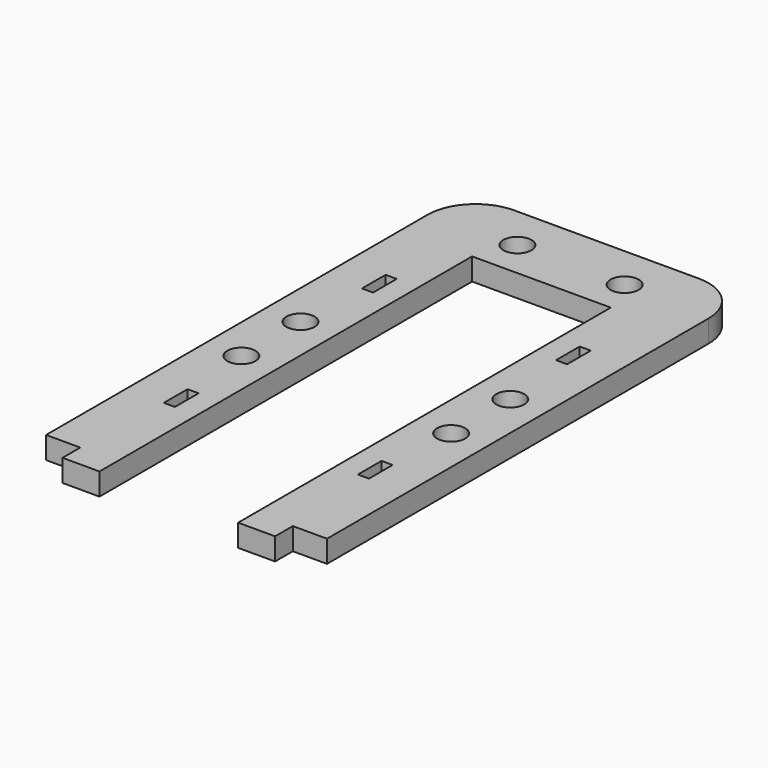
from build123d import *

# Parameters (mm, degrees)
PAD001_DEPTH                  = 3
SKETCH002_W                   = 5
SKETCH002_H                   = 3
PAD002_DEPTH                  = 3
SKETCH006_W                   = 1.5
SKETCH006_H                   = 4
POCKET002_DEPTH               = 169.48223
SKETCH006_MIRRORED004_2_W     = 1.5
SKETCH006_MIRRORED004_2_H     = 4
POCKET002_MIRRORED004_2_DEPTH = 169.48223
SKETCH008_R                   = 1.9
POCKET003_DEPTH               = 3.001
SKETCH013_R                   = 1.9
POCKET007_DEPTH               = 169.48223
SKETCH038_R                   = 1.9
POCKET025_DEPTH               = 169.48223


with BuildPart() as part:
    # Sketch001 → Pad001 (new body)
    with BuildSketch(Plane.XY):
        with BuildLine():
            Line((-19, 32.25), (-19, -32.25))
            Line((-19, -32.25), (-9.375, -32.25))
            Line((-9.375, -32.25), (-9.375, 27.75))
            Line((-9.375, 27.75), (9.375, 27.75))
            Line((9.375, 27.75), (9.375, -32.25))
            Line((9.375, -32.25), (19, -32.25))
            Line((19, -32.25), (19, 32.25))
            ThreePointArc((19, 32.25), (17.096194, 36.846194), (12.5, 38.75))
            Line((-12.5, 38.75), (12.5, 38.75))
            ThreePointArc((-12.5, 38.75), (-17.096194, 36.846194), (-19, 32.25))
        make_face()
    extrude(amount=PAD001_DEPTH)

    # Sketch002 (on DatumPlane) → Pad002 (join)
    with BuildSketch(Plane.XZ.offset(32.25)):
        with Locations((-11.875, 1.5)):
            Rectangle(SKETCH002_W, SKETCH002_H)
        with Locations((11.875, 1.5)):
            Rectangle(SKETCH002_W, SKETCH002_H)
    extrude(amount=PAD002_DEPTH)

    # Sketch006 (on Face14 of Pad002) → Pocket002 (cut, through all)
    with BuildSketch(Plane.XY.offset(3)):
        with Locations((-13.125, 16.75)):
            Rectangle(SKETCH006_W, SKETCH006_H)
    pocket002 = extrude(amount=-POCKET002_DEPTH, mode=Mode.SUBTRACT)

    # Sketch006 Mirrored004 2 → Pocket002 Mirrored004 2 (cut, through all)
    with BuildSketch(Plane(origin=(0, 0, 3), x_dir=(-1, 0, 0), z_dir=(0, 0, -1))):
        with Locations((-13.125, 16.75)):
            Rectangle(SKETCH006_MIRRORED004_2_W, SKETCH006_MIRRORED004_2_H)
    pocket002_mirrored004_2 = extrude(amount=POCKET002_MIRRORED004_2_DEPTH, mode=Mode.SUBTRACT)

    # Mirrored005: Pocket002, Pocket002 Mirrored004 2 across Sketch006 H_Axis
    add(pocket002.mirror(Plane(origin=(0, 0, 3), x_dir=(0, 0, 1), z_dir=(0, 1, 0))), mode=Mode.SUBTRACT)
    add(pocket002_mirrored004_2.mirror(Plane(origin=(0, 0, 3), x_dir=(0, 0, 1), z_dir=(0, 1, 0))), mode=Mode.SUBTRACT)

    # Sketch008 (on Face4 of MultiTransform002) → Pocket003 (cut, through all)
    with BuildSketch(Plane.XY.offset(3)):
        with Locations((-7.25, 32.75)):
            Circle(SKETCH008_R)
        with Locations((7.25, 32.75)):
            Circle(SKETCH008_R)
    extrude(amount=-POCKET003_DEPTH, mode=Mode.SUBTRACT)

    # Sketch013 (on Face4 of Pocket003) → Pocket007 (cut, through all)
    with BuildSketch(Plane.XY.offset(3)):
        with Locations((-14.1875, -5.25)):
            Circle(SKETCH013_R)
    pocket007 = extrude(amount=-POCKET007_DEPTH, mode=Mode.SUBTRACT)

    # Mirrored008: Pocket007 across Sketch013 V_Axis
    add(pocket007.mirror(Plane(origin=(0, 0, 3), x_dir=(0, 0, 1), z_dir=(1, 0, 0))), mode=Mode.SUBTRACT)

    # Sketch038 (on Face4 of Mirrored008) → Pocket025 (cut, through all)
    with BuildSketch(Plane.XY.offset(3)):
        with Locations((-14.1875, 4.75)):
            Circle(SKETCH038_R)
    pocket025 = extrude(amount=-POCKET025_DEPTH, mode=Mode.SUBTRACT)

    # Mirrored021: Pocket025 across Sketch038 V_Axis
    add(pocket025.mirror(Plane(origin=(0, 0, 3), x_dir=(0, 0, 1), z_dir=(1, 0, 0))), mode=Mode.SUBTRACT)


with BuildPart() as part_1:
    # Body001 placement: moved
    add(part.part.moved(Location((-67, -49, 0))))


solid = part_1.part
